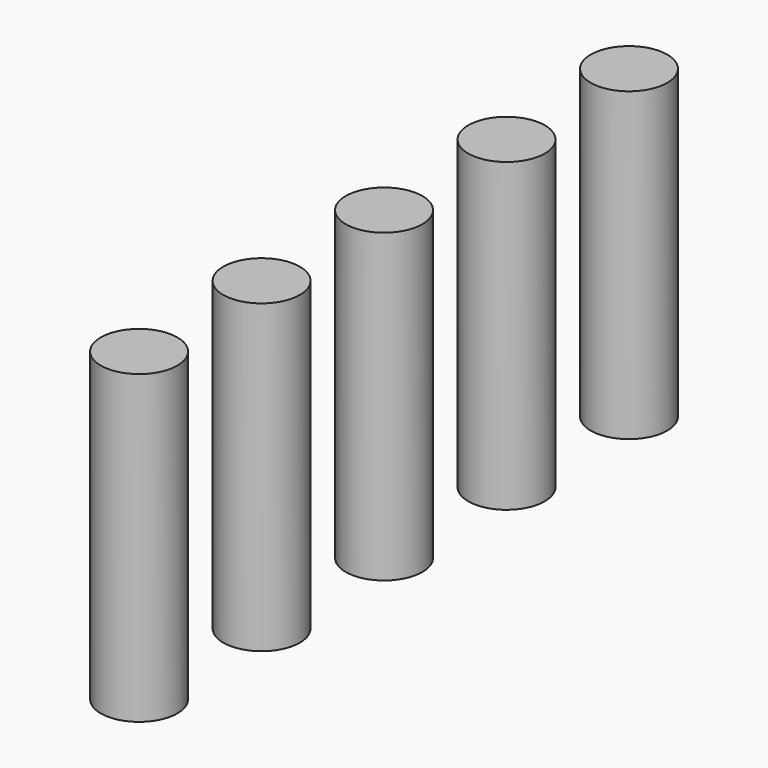
from build123d import *

# Parameters (mm, degrees)
CYLINDER072_R     = 2.5
CYLINDER072_DEPTH = 20
CYLINDER073_R     = 2.5
CYLINDER073_DEPTH = 20
CYLINDER074_R     = 2.5
CYLINDER074_DEPTH = 20
CYLINDER075_R     = 2.5
CYLINDER075_DEPTH = 20
CYLINDER071_R     = 2.5
CYLINDER071_DEPTH = 20


with BuildPart() as cylinder072:
    # cylinder072 → cylinder072 (new body)
    with BuildSketch(Plane(origin=(0, 10, -24.5), x_dir=(1, 0, 0), z_dir=(0, 0, 1))):
        Circle(CYLINDER072_R)
    extrude(amount=CYLINDER072_DEPTH)


with BuildPart() as cylinder073:
    # cylinder073 → cylinder073 (new body)
    with BuildSketch(Plane(origin=(0, 20, -24.5), x_dir=(1, 0, 0), z_dir=(0, 0, 1))):
        Circle(CYLINDER073_R)
    extrude(amount=CYLINDER073_DEPTH)


with BuildPart() as cylinder074:
    # cylinder074 → cylinder074 (new body)
    with BuildSketch(Plane(origin=(0, 30, -24.5), x_dir=(1, 0, 0), z_dir=(0, 0, 1))):
        Circle(CYLINDER074_R)
    extrude(amount=CYLINDER074_DEPTH)


with BuildPart() as cylinder075:
    # cylinder075 → cylinder075 (new body)
    with BuildSketch(Plane(origin=(0, 40, -24.5), x_dir=(1, 0, 0), z_dir=(0, 0, 1))):
        Circle(CYLINDER075_R)
    extrude(amount=CYLINDER075_DEPTH)


with BuildPart() as matrix_union015:
    # cylinder071 → cylinder071 (new body)
    with BuildSketch(Plane.XY.offset(-24.5)):
        Circle(CYLINDER071_R)
    extrude(amount=CYLINDER071_DEPTH)

    # Matrix_Union015: union cylinder072, cylinder073, cylinder074, cylinder075
    add(cylinder072.part)
    add(cylinder073.part)
    add(cylinder074.part)
    add(cylinder075.part)


solid = matrix_union015.part
